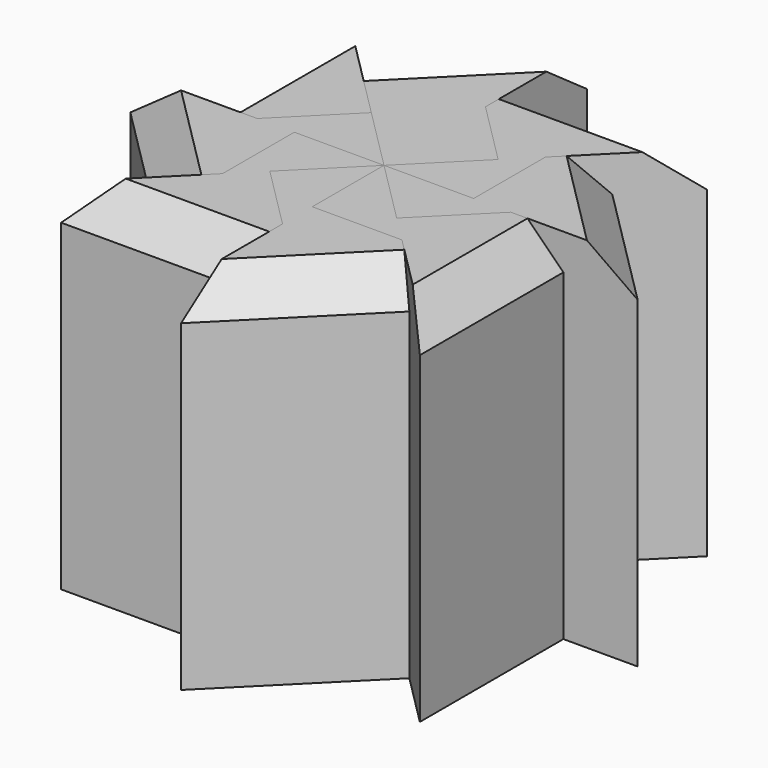
from build123d import *

# Parameters (mm, degrees)
F1_DEPTH      = 25.4
F1_DEPTH_BACK = 25.4
F2_COUNT      = 8
F3_SIZE       = 5.08


with BuildPart() as f1:
    # F0 (on Top) → F1 (new body, two sides)
    with BuildSketch(Plane.XY) as f1_sk:
        Polygon((-12.7, 12.7), (-25.4, 25.4), (-25.4, 0), (0, 0), (0, 12.7), align=None)
    extrude(amount=F1_DEPTH)
    extrude(f1_sk.sketch, amount=-F1_DEPTH_BACK)

    # F3
    f3_edges = [f1.edges().sort_by_distance(p)[0] for p in [
        (-25.4, 12.7, 25.4),
    ]]
    chamfer(f3_edges, length=F3_SIZE)


with BuildPart() as f2_1:
    # F2: instance of F1
    add(f1.part.rotate(Axis((0, 0, 0), (0, 0, 1)), 1 * 360 / F2_COUNT))


with BuildPart() as f2_2:
    # F2: instance of F1
    add(f1.part.rotate(Axis((0, 0, 0), (0, 0, 1)), 2 * 360 / F2_COUNT))


with BuildPart() as f2_3:
    # F2: instance of F1
    add(f1.part.rotate(Axis((0, 0, 0), (0, 0, 1)), 3 * 360 / F2_COUNT))


with BuildPart() as f2_4:
    # F2: instance of F1
    add(f1.part.rotate(Axis((0, 0, 0), (0, 0, 1)), 4 * 360 / F2_COUNT))


with BuildPart() as f2_5:
    # F2: instance of F1
    add(f1.part.rotate(Axis((0, 0, 0), (0, 0, 1)), 5 * 360 / F2_COUNT))


with BuildPart() as f2_6:
    # F2: instance of F1
    add(f1.part.rotate(Axis((0, 0, 0), (0, 0, 1)), 6 * 360 / F2_COUNT))


with BuildPart() as f2_7:
    # F2: instance of F1
    add(f1.part.rotate(Axis((0, 0, 0), (0, 0, 1)), 7 * 360 / F2_COUNT))


solid = Compound([f1.part, f2_1.part, f2_2.part, f2_3.part, f2_4.part, f2_5.part, f2_6.part, f2_7.part])
